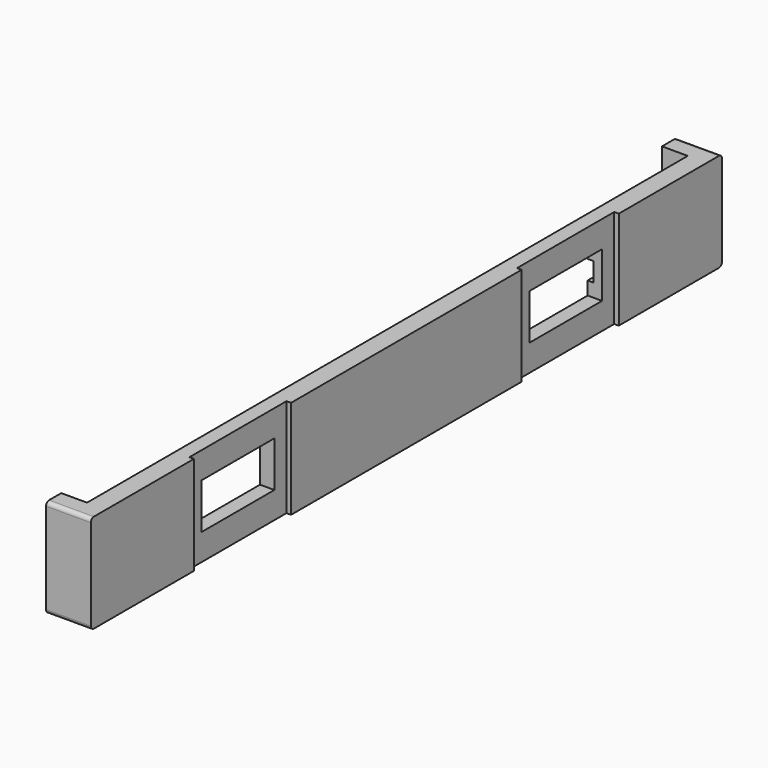
from build123d import *

# Parameters (mm, degrees)
F0_W      = 52
F0_H      = 6.5
F1_DEPTH  = 0.625
F2_W      = 1.25
F2_H      = 6.5
F3_DEPTH  = 1.7
F4_R      = 0.25
F5_R      = 2
F6_DEPTH  = 0.8
F7_W      = 8
F7_H      = 6.5
F8_DEPTH  = 0.3
F9_W      = 6
F9_H      = 3
F10_DEPTH = 0.95
F11_W     = 8.25
F11_H     = 1.25
F12_DEPTH = 0.4


with BuildPart() as f1:
    # F0 (on Right) → F1 (new body, symmetric)
    with BuildSketch(Plane.YZ):
        Rectangle(F0_W, F0_H)
    extrude(amount=F1_DEPTH, both=True)

    # F2 (on face) → F3 (join)
    with BuildSketch(Plane(origin=(-0.625, 0, 0), x_dir=(0, -1, 0), z_dir=(-1, 0, 0))):
        with Locations((-25.375, 0)):
            Rectangle(F2_W, F2_H)
        with Locations((25.375, 0)):
            Rectangle(F2_W, F2_H)
    extrude(amount=F3_DEPTH)

    # F4
    f4_edges = [f1.edges().sort_by_distance(p)[0] for p in [
        (-0.85, -26, 3.25),
        (-0.85, -26, -3.25),
        (-0.85, 26, 3.25),
        (-0.85, 26, -3.25),
    ]]
    fillet(f4_edges, radius=F4_R)

    # F5 (on face) → F6 (cut)
    with BuildSketch(Plane(origin=(-0.625, 0, 0), x_dir=(0, -1, 0), z_dir=(-1, 0, 0))):
        Circle(F5_R)
    extrude(amount=-F6_DEPTH, mode=Mode.SUBTRACT)

    # F7 (on face) → F8 (cut)
    with BuildSketch(Plane.YZ.offset(0.625)):
        with Locations((-13.5, 0)):
            Rectangle(F7_W, F7_H)
        with Locations((13.5, 0)):
            Rectangle(F7_W, F7_H)
    extrude(amount=-F8_DEPTH, mode=Mode.SUBTRACT)

    # F9 (on face) → F10 (cut, through all)
    with BuildSketch(Plane(origin=(-0.625, 0, 0), x_dir=(0, -1, 0), z_dir=(-1, 0, 0))):
        with Locations((13.5, 0)):
            Rectangle(F9_W, F9_H)
        with Locations((-13.5, 0)):
            Rectangle(F9_W, F9_H)
    extrude(amount=-F10_DEPTH, mode=Mode.SUBTRACT)

    # F11 (on face) → F12 (cut)
    with BuildSketch(Plane(origin=(-0.625, 0, 0), x_dir=(0, -1, 0), z_dir=(-1, 0, 0))):
        with Locations((-20.625, 0)):
            Rectangle(F11_W, F11_H)
        with Locations((20.625, 0)):
            Rectangle(F11_W, F11_H)
    extrude(amount=-F12_DEPTH, mode=Mode.SUBTRACT)


solid = f1.part
